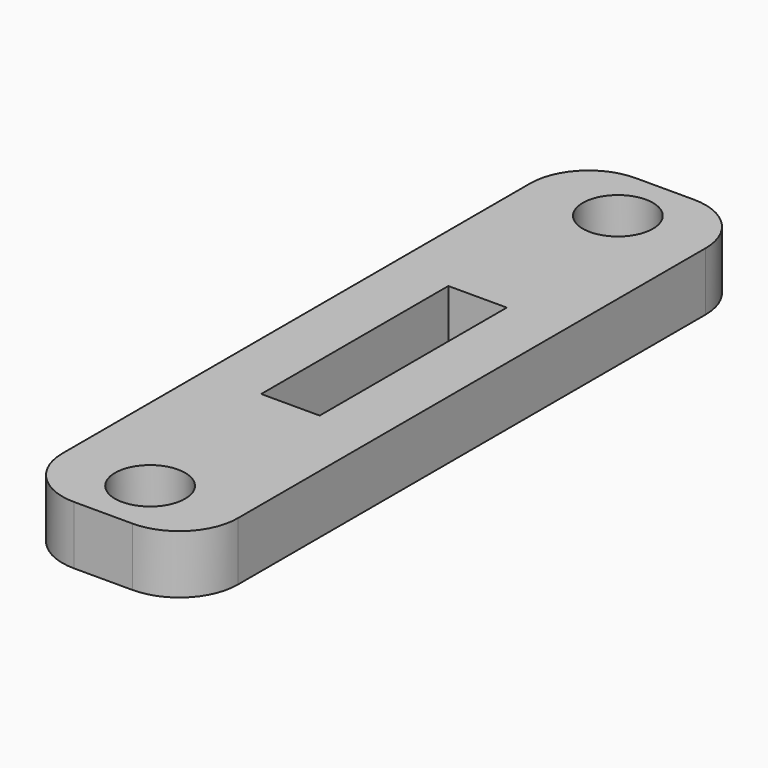
from build123d import *

# Parameters (mm, degrees)
F0_W     = 15
F0_H     = 60
F1_DEPTH = 5
F2_R     = 5
F4_W     = 5
F4_H     = 20
F5_DEPTH = 5
F3_R     = 3
F6_DEPTH = 5


with BuildPart() as f1:
    # F0 (on Top) → F1 (new body)
    with BuildSketch(Plane.XY):
        Rectangle(F0_W, F0_H)
    extrude(amount=F1_DEPTH)

    # F2
    f2_edges = [f1.edges().sort_by_distance(p)[0] for p in [
        (7.5, -30, 2.5),
        (-7.5, -30, 2.5),
        (7.5, 30, 2.5),
        (-7.5, 30, 2.5),
    ]]
    fillet(f2_edges, radius=F2_R)

    # F4 (on face) → F5 (cut, through all)
    with BuildSketch(Plane.XY.offset(5)):
        Rectangle(F4_W, F4_H)
    extrude(amount=-F5_DEPTH, mode=Mode.SUBTRACT)

    # F3 (on face) → F6 (cut, through all)
    with BuildSketch(Plane.XY.offset(5)):
        with Locations((0, -25)):
            Circle(F3_R)
        with Locations((0, 25)):
            Circle(F3_R)
    extrude(amount=-F6_DEPTH, mode=Mode.SUBTRACT)


solid = f1.part
